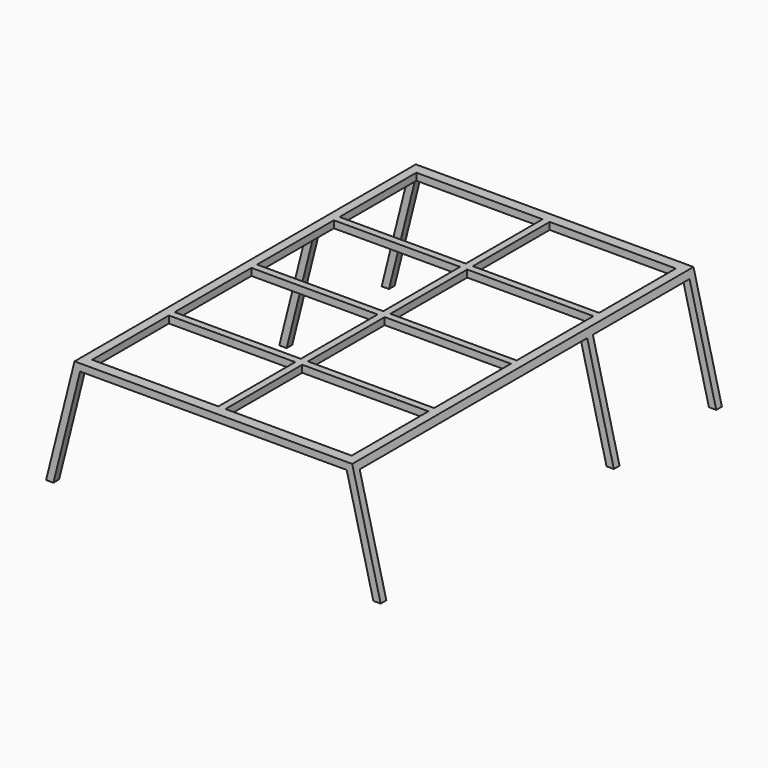
from build123d import *

# Parameters (mm, degrees)
F1_DEPTH = 120
F2_W     = 160
F2_H     = 60
F2_W_2   = 68
F3_DEPTH = 100
F4_W     = 71
F4_H     = 54
F5_DEPTH = 80.360247


with BuildPart() as f1:
    # F0 (on Front) → F1 (new body, symmetric)
    with BuildSketch(Plane.XZ):
        Polygon((-94.123106, 0), (-90, 0), (-75, 60), (75, 60), (90, 0), (94.123106, 0), (78.123106, 64), (-78.123106, 64), align=None)
    extrude(amount=F1_DEPTH, both=True)

    # F2 (on Right) → F3 (cut, symmetric)
    with BuildSketch(Plane.YZ):
        with Locations((-36, 30)):
            Rectangle(F2_W, F2_H)
        with Locations((82, 30)):
            Rectangle(F2_W_2, F2_H)
    extrude(amount=F3_DEPTH, both=True, mode=Mode.SUBTRACT)

    # F4 (on face) → F5 (cut)
    with BuildSketch(Plane.XY.offset(64)):
        with Locations((-37.5, 87)):
            Rectangle(F4_W, F4_H)
        with Locations((37.5, 87)):
            Rectangle(F4_W, F4_H)
        with Locations((-37.5, 29)):
            Rectangle(F4_W, F4_H)
        with Locations((37.5, 29)):
            Rectangle(F4_W, F4_H)
        with Locations((-37.5, -29)):
            Rectangle(F4_W, F4_H)
        with Locations((37.5, -29)):
            Rectangle(F4_W, F4_H)
        with Locations((-37.5, -87)):
            Rectangle(F4_W, F4_H)
        with Locations((37.5, -87)):
            Rectangle(F4_W, F4_H)
    extrude(amount=-F5_DEPTH, mode=Mode.SUBTRACT)


solid = f1.part
